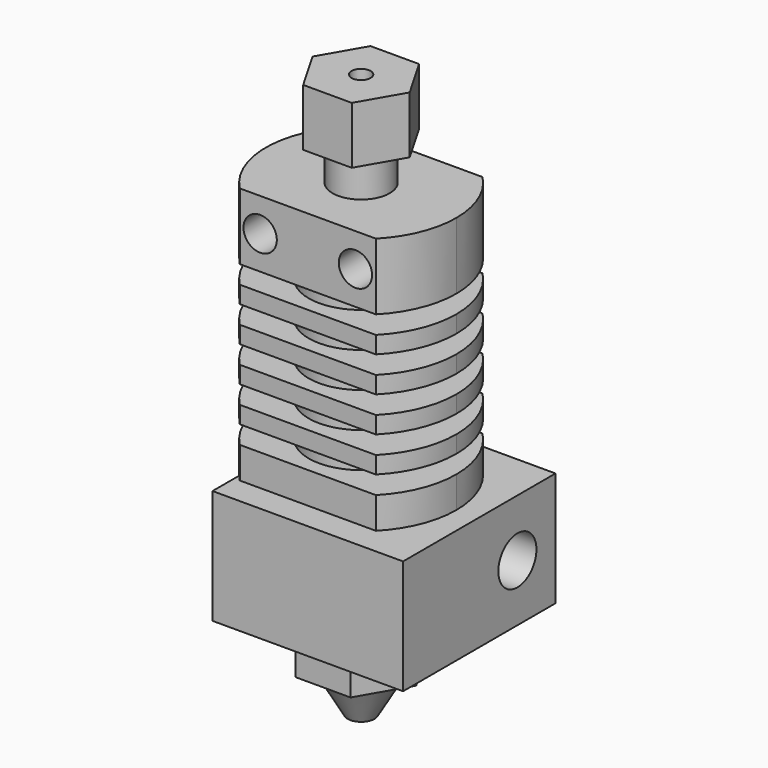
from build123d import *

# Parameters (mm, degrees)
F0_R           = 2.2937200761
F1_DEPTH       = 27
F2_W           = 10
F2_H           = 1.9
F2_R           = 1.75
F4_DEPTH       = 12.5
F5_R           = 3
F6_DEPTH       = 4
F7_R           = 2.2937200761
F7_R_2         = 1.5
F8_DEPTH       = 30
F7_R_3         = 1
F9_DEPTH       = 30
F10_W          = 10
F10_H          = 2.5
F12_W          = 20
F12_H          = 12
F13_DEPTH      = 7
F13_DEPTH_BACK = 13
F14_R          = 2.5
F15_DEPTH      = 12.001
F16_R          = 2.5
F17_DEPTH      = 20
F20_R          = 4
F21_DEPTH      = 3
F22_R          = 3
F22_R_2        = 2.2937200761
F22_R_3        = 1
F23_DEPTH      = 14
F24_R          = 3
F25_DEPTH      = 6


with BuildPart() as f1:
    # F0 (on Top) → F1 (new body)
    with BuildSketch(Plane.XY):
        with BuildLine():
            ThreePointArc((7.1414284285, -7), (9.2578151927, -3.7805896177), (10, 0))
            ThreePointArc((10, 0), (9.2578151927, 3.7805896177), (7.1414284285, 7))
            Line((7.1414284285, 7), (-7.1414284285, 7))
            ThreePointArc((-7.1414284285, 7), (-10, 0), (-7.1414284285, -7))
            Line((-7.1414284285, -7), (7.1414284285, -7))
        make_face()
        Circle(F0_R, mode=Mode.SUBTRACT)
    extrude(amount=-F1_DEPTH)

    # F2 (on Front) → F3 (revolve, cut)
    with BuildSketch(Plane.XZ):
        with Locations((-10.5, -7.95)):
            Rectangle(F2_W, F2_H)
        with Locations((-10.5, -11.65)):
            Rectangle(F2_W, F2_H)
        with Locations((-10.5, -15.35)):
            Rectangle(F2_W, F2_H)
        with Locations((-10.5, -19.05)):
            Rectangle(F2_W, F2_H)
        with Locations((-10.5, -22.75)):
            Rectangle(F2_W, F2_H)
    revolve(axis=Axis((0, 0, 12.942626141), (0, 0, 1)), mode=Mode.SUBTRACT)

    # F2 (on Front) → F4 (cut, symmetric)
    with BuildSketch(Plane.XZ):
        with Locations((-5, -3.5)):
            Circle(F2_R)
        with Locations((5, -3.5)):
            Circle(F2_R)
    extrude(amount=F4_DEPTH, both=True, mode=Mode.SUBTRACT)

    # F5 (on face) → F6 (cut)
    with BuildSketch(Plane.XY):
        Circle(F5_R)
    extrude(amount=-F6_DEPTH, mode=Mode.SUBTRACT)


with BuildPart() as f8:
    # F7 (on face) → F8 (new body)
    with BuildSketch(Plane.XY.offset(-4)):
        Circle(F7_R)
        Circle(F7_R_2, mode=Mode.SUBTRACT)
    extrude(amount=-F8_DEPTH)

    # F10 (on Front) → F11 (revolve, cut)
    with BuildSketch(Plane.XZ):
        with Locations((-6.75, -28.26)):
            Rectangle(F10_W, F10_H)
    revolve(axis=Axis((0, 0, 9.7510513449), (0, 0, 1)), mode=Mode.SUBTRACT)


with BuildPart() as f9:
    # F7 (on face) → F9 (new body, through all)
    with BuildSketch(Plane.XY.offset(-4)):
        Circle(F7_R_2)
        Circle(F7_R_3, mode=Mode.SUBTRACT)
    extrude(amount=-F9_DEPTH)


with BuildPart() as f13:
    # F12 (on Front) → F13 (new body, two sides)
    with BuildSketch(Plane.XZ) as f13_sk:
        with Locations((0, -34.9)):
            Rectangle(F12_W, F12_H)
    extrude(amount=F13_DEPTH)
    extrude(f13_sk.sketch, amount=-F13_DEPTH_BACK)

    # F14 (on face) → F15 (cut, through all)
    with BuildSketch(Plane.XY.offset(-28.9)):
        Circle(F14_R)
    extrude(amount=-F15_DEPTH, mode=Mode.SUBTRACT)

    # F16 (on face) → F17 (cut, symmetric)
    with BuildSketch(Plane.YZ.offset(10)):
        with Locations((8, -34.9)):
            Circle(F16_R)
    extrude(amount=F17_DEPTH, both=True, mode=Mode.SUBTRACT)


with BuildPart() as f19:
    # F18 (on Right) → F19 (revolve)
    with BuildSketch(Plane.YZ):
        Polygon((2.5, -34.1), (1.1801748769, -34.1), (1.1801748769, -45.6576456319), (0.2, -46.637817806), (0.2, -49.1), (1.4019237886, -49.1), (4, -44.6), (4, -41.6), (2.5, -41.6), align=None)
    revolve(axis=Axis((0, 0, 4.5873620547), (0, 0, 1)))

    # F20 (on face) → F21 (join)
    with BuildSketch(Plane.XY.offset(-41.6)):
        Polygon((5.7735026919, 0), (2.8867513459, 5), (-2.8867513459, 5), (-5.7735026919, 0), (-2.8867513459, -5), (2.8867513459, -5), align=None)
        Circle(F20_R, mode=Mode.SUBTRACT)
    extrude(amount=-F21_DEPTH)


with BuildPart() as f23:
    # F22 (on face) → F23 (new body)
    with BuildSketch(Plane.XY.offset(-4)):
        Circle(F22_R)
        Circle(F22_R_2, mode=Mode.SUBTRACT)
        Circle(F22_R_2)
        Circle(F22_R_3, mode=Mode.SUBTRACT)
    extrude(amount=F23_DEPTH)

    # F24 (on face) → F25 (join)
    with BuildSketch(Plane.XY.offset(10)):
        Polygon((2.5493241698, 4.415558987), (-2.5493241698, 4.415558987), (-5.0986483395, 0), (-2.5493241698, -4.415558987), (2.5493241698, -4.415558987), (5.0986483395, 0), align=None)
        Circle(F24_R, mode=Mode.SUBTRACT)
    extrude(amount=-F25_DEPTH)


solid = Compound([f1.part, f8.part, f9.part, f13.part, f19.part, f23.part])
